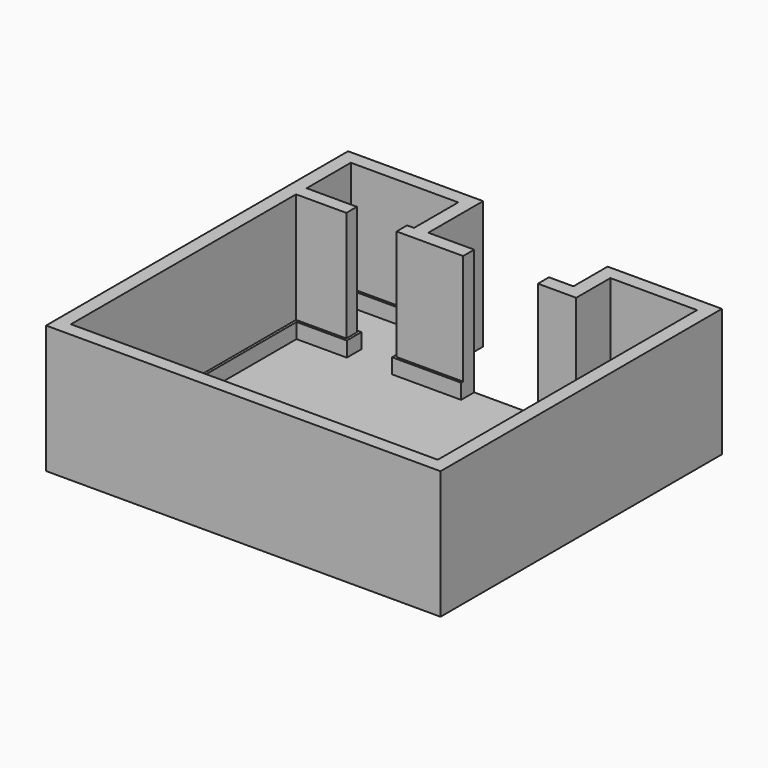
from build123d import *

# Parameters (mm, degrees)
F1_DEPTH = 1270
F3_DEPTH = 25.4
F5_DEPTH = 152.4


with BuildPart() as f1:
    # F0 (on Top) → F1 (new body)
    with BuildSketch(Plane.XY):
        Polygon((70.508858, 840.235406), (70.508858, 706.885406), (743.608858, 706.885406), (743.608858, 846.585406), (280.058858, 846.585406), (280.058858, 1538.735406), (-1085.191142, 1538.735406), (-1085.191142, -2277.614594), (2902.608858, -2277.614594), (2902.608858, 1278.385406), (1746.908858, 1278.385406), (1746.908858, 846.585406), (1499.258858, 846.585406), (1499.258858, 706.885406), (1886.608858, 706.885406), (1886.608858, 1138.685406), (2762.908858, 1138.685406), (2762.908858, -2137.914594), (-945.491142, -2137.914594), (-945.491142, 706.885406), (-437.491142, 706.885406), (-437.491142, 840.235406), (-945.491142, 840.235406), (-945.491142, 1399.035406), (140.358858, 1399.035406), (140.358858, 840.235406), align=None)
    extrude(amount=F1_DEPTH)

    # F2 (on face) → F3 (join)
    with BuildSketch(Plane(origin=(0, 0, 0), x_dir=(1, 0, 0), z_dir=(0, 0, -1))):
        Polygon((2902.608858, -1278.385406), (2902.608858, 2277.614594), (-1085.191142, 2277.614594), (-1085.191142, -1538.735406), (280.058858, -1538.735406), (280.058858, -846.585406), (1746.908858, -846.585406), (1746.908858, -1278.385406), align=None)
    extrude(amount=F3_DEPTH)

    # F4 (on face) → F5 (join)
    with BuildSketch(Plane.XY):
        Polygon((2762.908858, 1138.685406), (1886.608858, 1138.685406), (1886.608858, 706.885406), (1499.258858, 706.885406), (1499.258858, 681.485406), (1912.008858, 681.485406), (1912.008858, 1113.285406), (2737.508858, 1113.285406), (2737.508858, -2112.514594), (-920.091142, -2112.514594), (-920.091142, 681.485406), (-412.091142, 681.485406), (-412.091142, 865.635406), (-920.091142, 865.635406), (-920.091142, 1373.635406), (114.958858, 1373.635406), (114.958858, 865.635406), (45.108858, 865.635406), (45.108858, 681.485406), (743.608858, 681.485406), (743.608858, 706.885406), (70.508858, 706.885406), (70.508858, 840.235406), (140.358858, 840.235406), (140.358858, 1399.035406), (-945.491142, 1399.035406), (-945.491142, 840.235406), (-437.491142, 840.235406), (-437.491142, 706.885406), (-945.491142, 706.885406), (-945.491142, -2137.914594), (2762.908858, -2137.914594), align=None)
    extrude(amount=F5_DEPTH)


solid = f1.part
